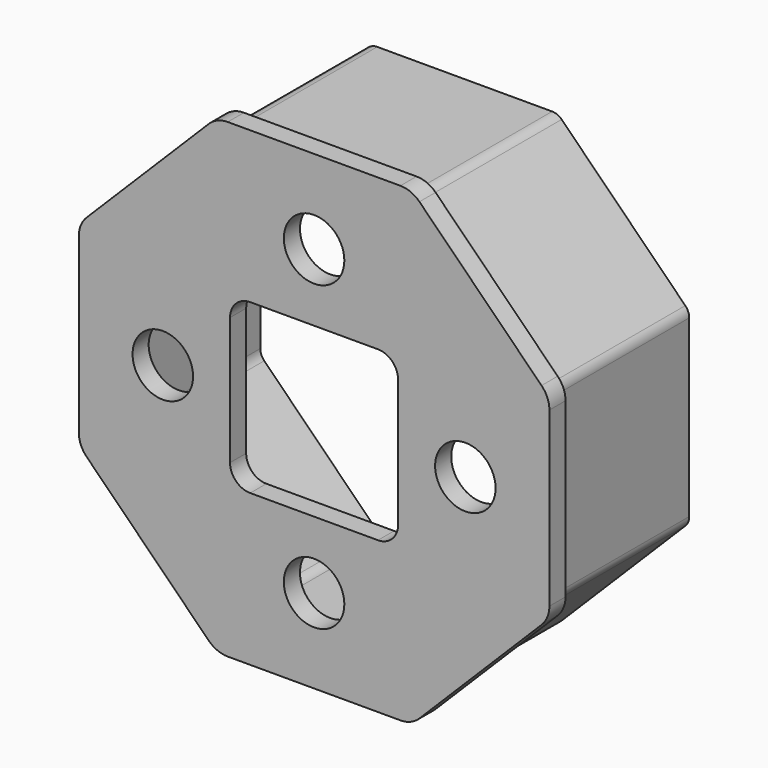
from build123d import *

# Parameters (mm, degrees)
F1_DEPTH  = 25
F3_DEPTH  = 3
F4_R      = 2
F5_R      = 4
F6_W      = 25
F6_H      = 25
F7_DEPTH  = 25
F8_R      = 3
F9_R      = 4.5
F10_DEPTH = 25


with BuildPart() as f1:
    # F0 (on Front) → F1 (new body)
    with BuildSketch(Plane.XZ):
        Polygon((13.834733, 33.4), (-13.834733, 33.4), (-33.4, 13.834733), (-33.4, -13.834733), (-13.834733, -33.4), (13.834733, -33.4), (33.4, -13.834733), (33.4, 13.834733), align=None)
        Polygon((-12.592092, -30.4), (-30.4, -12.592092), (-30.4, 12.592092), (-12.592092, 30.4), (12.592092, 30.4), (30.4, 12.592092), (30.4, -12.592092), (12.592092, -30.4), align=None, mode=Mode.SUBTRACT)
    extrude(amount=F1_DEPTH)

    # F2 (on face) → F3 (join)
    with BuildSketch(Plane.XZ.offset(25)):
        Polygon((14.497475, 35), (-14.497475, 35), (-35, 14.497475), (-35, -14.497475), (-14.497475, -35), (14.497475, -35), (35, -14.497475), (35, 14.497475), align=None)
    extrude(amount=F3_DEPTH)

    # F4
    f4_edges = [f1.edges().sort_by_distance(p)[0] for p in [
        (13.834733, -12.5, 33.4),
        (33.4, -12.5, 13.834733),
        (33.4, -12.5, -13.834733),
        (13.834733, -12.5, -33.4),
        (-13.834733, -12.5, -33.4),
        (-33.4, -12.5, -13.834733),
        (-33.4, -12.5, 13.834733),
        (-13.834733, -12.5, 33.4),
        (-30.4, -12.5, 12.592092),
        (-30.4, -12.5, -12.592092),
        (-12.592092, -12.5, 30.4),
        (12.592092, -12.5, 30.4),
        (30.4, -12.5, 12.592092),
        (30.4, -12.5, -12.592092),
        (-12.592092, -12.5, -30.4),
        (12.592092, -12.5, -30.4),
    ]]
    fillet(f4_edges, radius=F4_R)

    # F5
    f5_edges = [f1.edges().sort_by_distance(p)[0] for p in [
        (-14.497475, -26.5, 35),
        (-35, -26.5, 14.497475),
        (14.497475, -26.5, 35),
        (35, -26.5, 14.497475),
        (35, -26.5, -14.497475),
        (14.497475, -26.5, -35),
        (-14.497475, -26.5, -35),
        (-35, -26.5, -14.497475),
    ]]
    fillet(f5_edges, radius=F5_R)

    # F6 (on face) → F7 (cut)
    with BuildSketch(Plane.XZ.offset(28)):
        Rectangle(F6_W, F6_H)
    extrude(amount=-F7_DEPTH, mode=Mode.SUBTRACT)

    # F8
    f8_edges = [f1.edges().sort_by_distance(p)[0] for p in [
        (-12.5, -26.5, 12.5),
        (12.5, -26.5, 12.5),
        (12.5, -26.5, -12.5),
        (-12.5, -26.5, -12.5),
    ]]
    fillet(f8_edges, radius=F8_R)

    # F9 (on face) → F10 (cut)
    with BuildSketch(Plane.XZ.offset(28)):
        with Locations((0, 22.5)):
            Circle(F9_R)
        with Locations((22.5, 0)):
            Circle(F9_R)
        with Locations((0, -22.5)):
            Circle(F9_R)
        with Locations((-22.5, 0)):
            Circle(F9_R)
    extrude(amount=-F10_DEPTH, mode=Mode.SUBTRACT)


solid = f1.part
